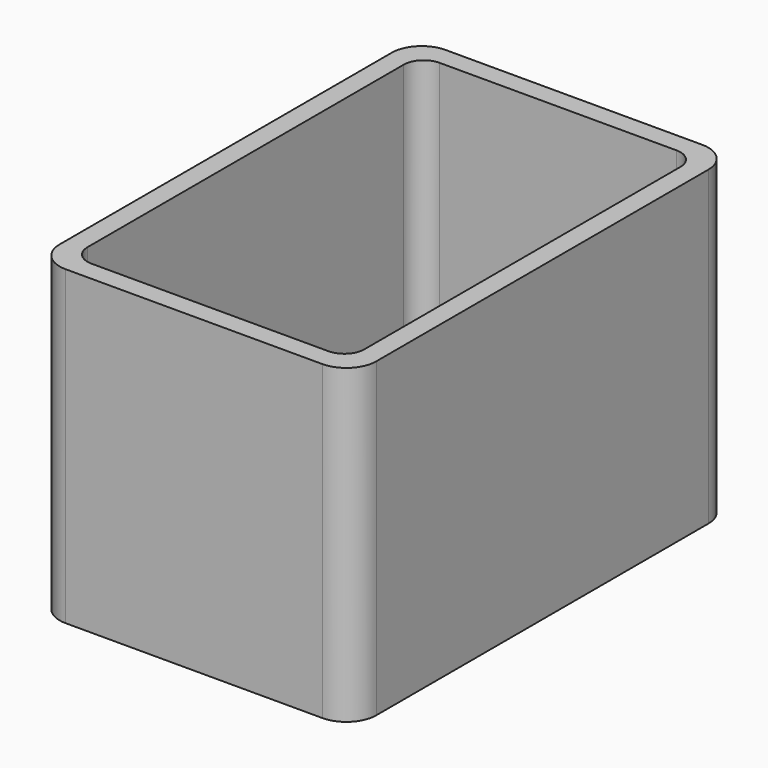
from build123d import *

# Parameters (mm, degrees)
EXTRUDE_DEPTH = 50


with BuildPart() as part:
    # Sketch → Extrude (new body)
    with BuildSketch(Plane.XY):
        with BuildLine():
            Line((-20.6, 38.1), (20.6, 38.1))
            ThreePointArc((25.4, 33.3), (23.994113, 36.694113), (20.6, 38.1))
            Line((25.4, 33.3), (25.4, -33.3))
            ThreePointArc((20.6, -38.1), (23.994113, -36.694113), (25.4, -33.3))
            Line((20.6, -38.1), (-20.6, -38.1))
            ThreePointArc((-25.4, -33.3), (-23.994113, -36.694113), (-20.6, -38.1))
            Line((-25.4, -33.3), (-25.4, 33.3))
            ThreePointArc((-20.6, 38.1), (-23.994113, 36.694113), (-25.4, 33.3))
        make_face()
        with BuildLine():
            Line((-19, 34.9), (19, 34.9))
            ThreePointArc((22.2, 31.7), (21.262742, 33.962742), (19, 34.9))
            Line((22.2, 31.7), (22.2, -31.7))
            ThreePointArc((19, -34.9), (21.262742, -33.962742), (22.2, -31.7))
            Line((19, -34.9), (-19, -34.9))
            ThreePointArc((-22.2, -31.7), (-21.262742, -33.962742), (-19, -34.9))
            Line((-22.2, -31.7), (-22.2, 31.7))
            ThreePointArc((-19, 34.9), (-21.262742, 33.962742), (-22.2, 31.7))
        make_face(mode=Mode.SUBTRACT)
    extrude(amount=EXTRUDE_DEPTH)


solid = part.part
